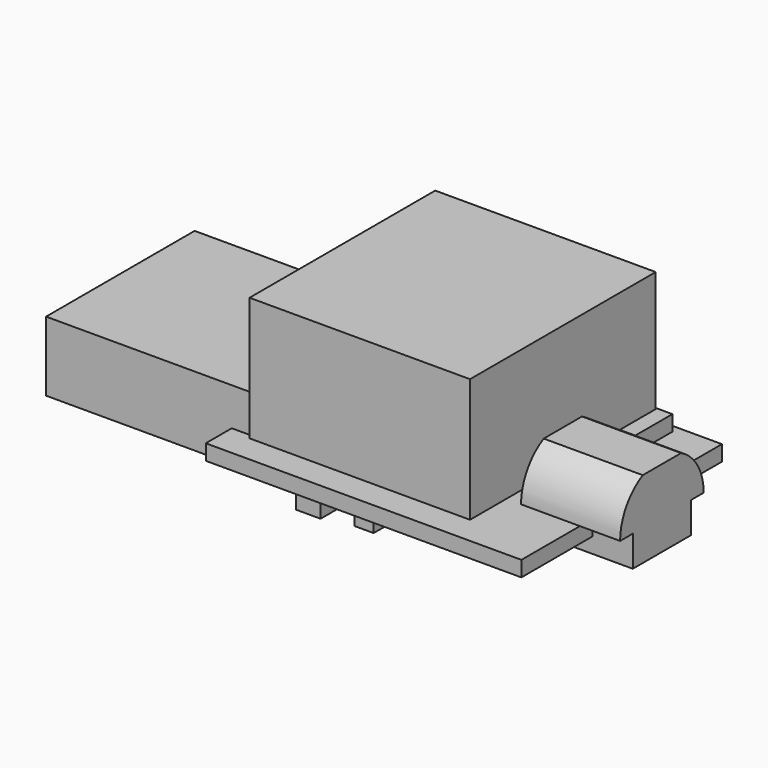
from build123d import *

# Parameters (mm, degrees)
F0_W          = 20.4
F0_H          = 16.2
F1_DEPTH      = 1
F2_W          = 12
F2_H          = 4.5
F3_DEPTH      = 12
F3_DEPTH_BACK = 2
F4_W          = 4.7
F4_H          = 1
F5_DEPTH      = 2.6
F5_DEPTH_BACK = 3.8
F6_R          = 0.45
F7_DEPTH      = 3
F8_W          = 5.6
F8_H          = 5.6
F9_DEPTH      = 0.8
F10_W         = 4
F10_H         = 4
F11_DEPTH     = 0.8
F12_W         = 2
F12_H         = 1.25
F13_DEPTH     = 1.25
F14_W         = 1.25
F14_H         = 3
F15_DEPTH     = 1
F16_W         = 2
F16_H         = 1.25
F16_W_2       = 1.25
F16_H_2       = 2
F17_DEPTH     = 1.25
F18_W         = 1.6
F18_H         = 3
F19_DEPTH     = 1.15
F20_W         = 4.25
F20_H         = 3
F21_DEPTH     = 1.15
F22_W         = 14.25
F22_H         = 15
F23_DEPTH     = 8


with BuildPart() as f1:
    # F0 (on Top) → F1 (new body)
    with BuildSketch(Plane.XY):
        Rectangle(F0_W, F0_H)
    extrude(amount=-F1_DEPTH)

    # F2 (on face) → F3 (join, two sides)
    with BuildSketch(Plane(origin=(-10.2, 0, 0), x_dir=(0, -1, 0), z_dir=(-1, 0, 0))) as f3_sk:
        with Locations((0, 0.2)):
            Rectangle(F2_W, F2_H)
    extrude(amount=F3_DEPTH)
    extrude(f3_sk.sketch, amount=-F3_DEPTH_BACK)

    # F4 (on face) → F5 (join, two sides)
    with BuildSketch(Plane.YZ.offset(10.2)) as f5_sk:
        with Locations((0, -1.5)):
            Rectangle(F4_W, F4_H)
        with Locations((0, -0.5)):
            Rectangle(F4_W, F4_H)
        with BuildLine():
            Line((-3.375, 0), (-2.35, 0))
            Line((-2.35, 0), (2.35, 0))
            Line((2.35, 0), (3.375, 0))
            ThreePointArc((3.375, 0), (2.8817469144, 1.7567469144), (1.5461646096, 3))
            Line((1.5461646096, 3), (-1.5461646096, 3))
            ThreePointArc((-1.5461646096, 3), (-2.8817469144, 1.7567469144), (-3.375, 0))
        make_face()
    extrude(amount=F5_DEPTH)
    extrude(f5_sk.sketch, amount=-F5_DEPTH_BACK)

    # F6 (on face) → F7 (join)
    with BuildSketch(Plane(origin=(6.4, 0, 0), x_dir=(0, -1, 0), z_dir=(-1, 0, 0))):
        with Locations((0, 0.5)):
            Circle(F6_R)
    extrude(amount=F7_DEPTH)

    # F8 (on face) → F9 (join)
    with BuildSketch(Plane.XY):
        with Locations((-6.3, -0.75)):
            Rectangle(F8_W, F8_H)
    extrude(amount=F9_DEPTH)

    # F10 (on face) → F11 (join)
    with BuildSketch(Plane.XY):
        with Locations((2.15, -4.1)):
            Rectangle(F10_W, F10_H)
    extrude(amount=F11_DEPTH)

    # F12 (on face) → F13 (join)
    with BuildSketch(Plane.XY):
        with Locations((-5.4, 4.975)):
            Rectangle(F12_W, F12_H)
    extrude(amount=F13_DEPTH)

    # F14 (on face) → F15 (join)
    with BuildSketch(Plane.XY):
        with Locations((6.775, 6.1)):
            Rectangle(F14_W, F14_H)
    extrude(amount=F15_DEPTH)

    # F16 (on face) → F17 (join)
    with BuildSketch(Plane(origin=(0, 0, -1), x_dir=(1, 0, 0), z_dir=(0, 0, -1))):
        with Locations((0.55, -4.475)):
            Rectangle(F16_W, F16_H)
        with Locations((-3.275, -1.1)):
            Rectangle(F16_W_2, F16_H_2)
        with Locations((-0.775, 6.1)):
            Rectangle(F16_W_2, F16_H_2)
    extrude(amount=F17_DEPTH)

    # F18 (on face) → F19 (join)
    with BuildSketch(Plane(origin=(0, 0, -1), x_dir=(1, 0, 0), z_dir=(0, 0, -1))):
        with Locations((-4.15, -5.7)):
            Rectangle(F18_W, F18_H)
        with Locations((-3.9, 6.2)):
            Rectangle(F18_W, F18_H)
    extrude(amount=F19_DEPTH)

    # F20 (on face) → F21 (join)
    with BuildSketch(Plane(origin=(0, 0, -1), x_dir=(1, 0, 0), z_dir=(0, 0, -1))):
        with Locations((6.175, -4.27)):
            Rectangle(F20_W, F20_H)
    extrude(amount=F21_DEPTH)

    # F22 (on face) → F23 (join)
    with BuildSketch(Plane.XY.offset(0.8)):
        with Locations((-0.725, 0)):
            Rectangle(F22_W, F22_H)
    extrude(amount=F23_DEPTH)


solid = f1.part
